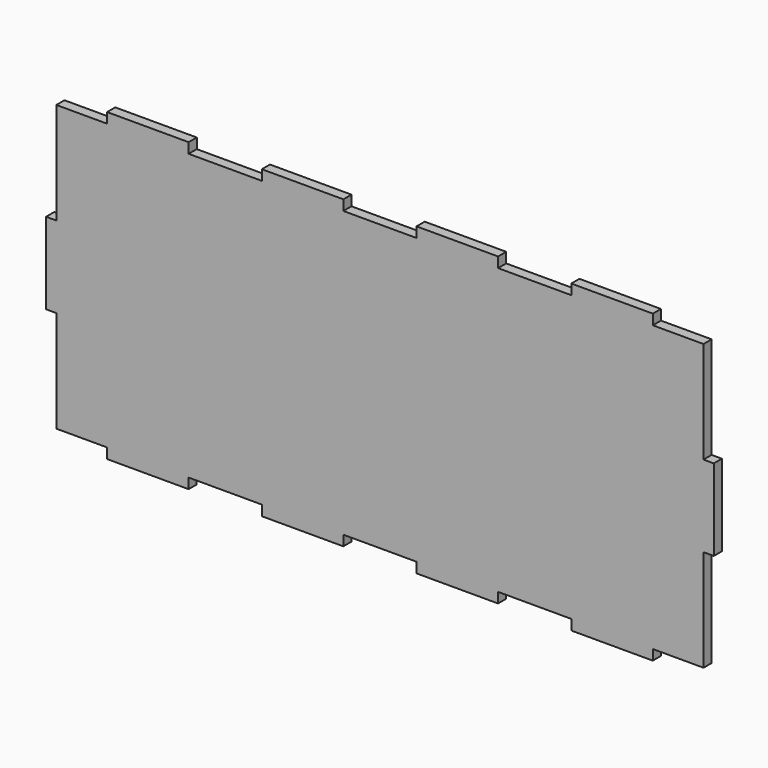
from build123d import *

# Parameters (mm, degrees)
F0_W     = 3.2004
F0_H     = 25.4254
F0_W_2   = 25.43556
F0_H_2   = 3.2004
F0_W_3   = 25.4254
F1_DEPTH = 3.175


with BuildPart() as f1:
    # F0 (on Front) → F1 (new body)
    with BuildSketch(Plane.XZ):
        with Locations((-87.219411, -2.295382)):
            Rectangle(F0_W, F0_H)
        with Locations((-57.077231, 43.754818)):
            Rectangle(F0_W_2, F0_H_2)
        Polygon((-69.795011, 42.154618), (-85.619211, 42.154618), (-85.619211, 10.417318), (-85.619211, -15.008082), (-85.619211, -46.745382), (-69.795011, -46.745382), (-44.369611, -46.745382), (-21.519771, -46.745382), (3.905629, -46.745382), (26.745309, -46.745382), (52.170709, -46.745382), (75.010389, -46.745382), (100.435789, -46.745382), (116.259989, -46.745382), (116.259989, -15.008082), (116.259989, 10.417318), (116.259989, 42.154618), (100.435789, 42.154618), (75.010389, 42.154618), (52.170709, 42.154618), (26.745309, 42.154618), (3.905629, 42.154618), (-21.519771, 42.154618), (-44.359451, 42.154618), align=None)
        with Locations((39.458009, 43.754818)):
            Rectangle(F0_W_3, F0_H_2)
        with Locations((87.723089, 43.754818)):
            Rectangle(F0_W_3, F0_H_2)
        with Locations((117.860189, -2.295382)):
            Rectangle(F0_W, F0_H)
        with Locations((87.723089, -48.345582)):
            Rectangle(F0_W_3, F0_H_2)
        with Locations((39.458009, -48.345582)):
            Rectangle(F0_W_3, F0_H_2)
        with Locations((-8.807071, -48.345582)):
            Rectangle(F0_W_3, F0_H_2)
        with Locations((-57.082311, -48.345582)):
            Rectangle(F0_W_3, F0_H_2)
        with Locations((-8.807071, 43.754818)):
            Rectangle(F0_W_3, F0_H_2)
    extrude(amount=F1_DEPTH)


solid = f1.part
